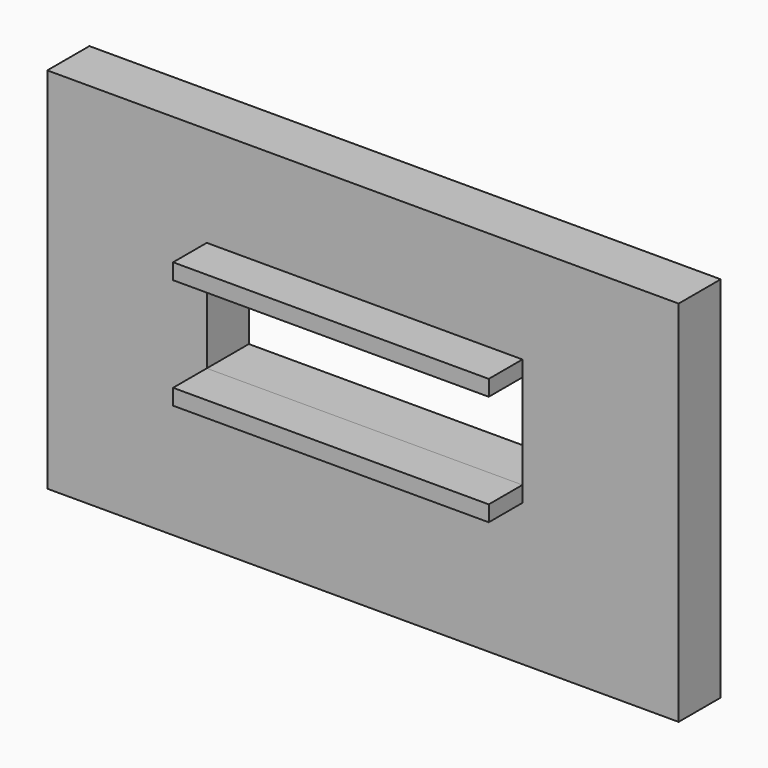
from build123d import *

# Parameters (mm, degrees)
F0_W     = 30
F0_H     = 1.5
F1_DEPTH = 4
F0_W_2   = 60
F0_H_2   = 35
F2_DEPTH = 5


with BuildPart() as f1:
    # F0 (on Front) → F1 (new body)
    with BuildSketch(Plane.XZ):
        with Locations((-0.136821, 5.2556)):
            Rectangle(F0_W, F0_H)
        with Locations((-0.136821, -5.2444)):
            Rectangle(F0_W, F0_H)
    extrude(amount=F1_DEPTH)


with BuildPart() as f2:
    # F0 (on Front) → F2 (new body)
    with BuildSketch(Plane.XZ):
        with Locations((-0.292571, -1.9944)):
            Rectangle(F0_W_2, F0_H_2)
        Polygon((-15.136821, 4.5056), (-15.136821, 6.0056), (14.863179, 6.0056), (14.863179, 4.5056), (14.863179, -4.4944), (14.863179, -5.9944), (-15.136821, -5.9944), (-15.136821, -4.4944), align=None, mode=Mode.SUBTRACT)
        with Locations((-0.136821, 5.2556)):
            Rectangle(F0_W, F0_H)
        with Locations((-0.136821, -5.2444)):
            Rectangle(F0_W, F0_H)
    extrude(amount=-F2_DEPTH)


solid = Compound([f1.part, f2.part])
